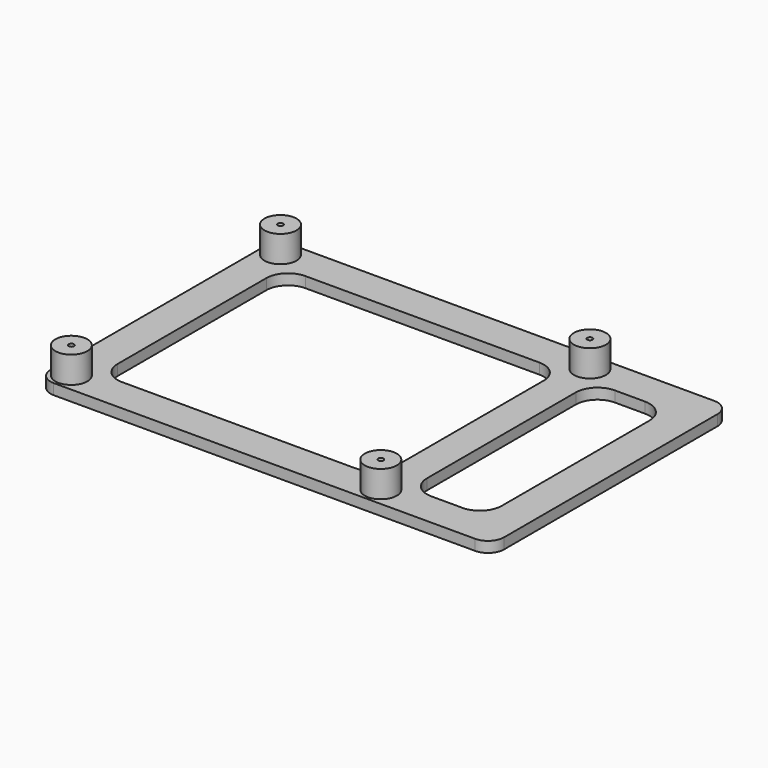
from build123d import *

# Parameters (mm, degrees)
SKETCH_W        = 85
SKETCH_H        = 56
PAD_DEPTH       = 2
SKETCH001_R     = 3
PAD001_DEPTH    = 5
FILLET_R        = 3
SKETCH002_R     = 0.5
POCKET_DEPTH    = 5
SKETCH003_R     = 0.5
POCKET001_DEPTH = 5
SKETCH004_R     = 0.5
POCKET002_DEPTH = 5
SKETCH005_R     = 0.5
POCKET003_DEPTH = 5
POCKET004_DEPTH = 2.001


with BuildPart() as part:
    # Sketch → Pad (new body)
    with BuildSketch(Plane.XY):
        with Locations((42.5, 28)):
            Rectangle(SKETCH_W, SKETCH_H)
    extrude(amount=PAD_DEPTH)

    # Sketch001 (on Face6 of Pad) → Pad001 (join)
    with BuildSketch(Plane.XY.offset(2)):
        with Locations((3.5, 3.5)):
            Circle(SKETCH001_R)
        with Locations((3.5, 52.5)):
            Circle(SKETCH001_R)
        with Locations((61.5, 52.5)):
            Circle(SKETCH001_R)
        with Locations((61.5, 3.5)):
            Circle(SKETCH001_R)
    extrude(amount=PAD001_DEPTH)

    # Fillet
    fillet_edges = [part.edges().sort_by_distance(p)[0] for p in [
        (85, 0, 1),
        (85, 56, 1),
        (0, 56, 1),
        (0, 0, 1),
    ]]
    fillet(fillet_edges, radius=FILLET_R)

    # Sketch002 (on Face16 of Fillet) → Pocket (cut)
    with BuildSketch(Plane.XY.offset(7)):
        with Locations((3.5, 3.5)):
            Circle(SKETCH002_R)
    extrude(amount=-POCKET_DEPTH, mode=Mode.SUBTRACT)

    # Sketch003 (on Face17 of Pocket) → Pocket001 (cut)
    with BuildSketch(Plane.XY.offset(7)):
        with Locations((3.5, 52.5)):
            Circle(SKETCH003_R)
    extrude(amount=-POCKET001_DEPTH, mode=Mode.SUBTRACT)

    # Sketch004 (on Face15 of Pocket001) → Pocket002 (cut)
    with BuildSketch(Plane.XY.offset(7)):
        with Locations((61.5, 3.5)):
            Circle(SKETCH004_R)
    extrude(amount=-POCKET002_DEPTH, mode=Mode.SUBTRACT)

    # Sketch005 (on Face18 of Pocket002) → Pocket003 (cut)
    with BuildSketch(Plane.XY.offset(7)):
        with Locations((61.5, 52.5)):
            Circle(SKETCH005_R)
    extrude(amount=-POCKET003_DEPTH, mode=Mode.SUBTRACT)

    # Sketch006 (on Face5 of Pocket003) → Pocket004 (cut, through all)
    with BuildSketch(Plane.XY.offset(2)):
        with BuildLine():
            Line((10.571068, 49.5), (54.428932, 49.5))
            ThreePointArc((58.5, 45.428932), (57.307612, 48.307612), (54.428932, 49.5))
            Line((58.5, 45.428932), (58.5, 10.571068))
            ThreePointArc((54.428932, 6.5), (57.307612, 7.692388), (58.5, 10.571068))
            Line((54.428932, 6.5), (10.571068, 6.5))
            ThreePointArc((6.5, 10.571068), (7.692388, 7.692388), (10.571068, 6.5))
            Line((6.5, 10.571068), (6.5, 45.428932))
            ThreePointArc((10.571068, 49.5), (7.692388, 48.307612), (6.5, 45.428932))
        make_face()
        with BuildLine():
            Line((68.571068, 49.5), (74.191068, 49.5))
            ThreePointArc((78.5, 45.191068), (77.237943, 48.237943), (74.191068, 49.5))
            Line((78.5, 45.191068), (78.5, 10.571068))
            ThreePointArc((74.428932, 6.5), (77.307612, 7.692388), (78.5, 10.571068))
            Line((74.428932, 6.5), (68.571068, 6.5))
            ThreePointArc((64.5, 10.571068), (65.692388, 7.692388), (68.571068, 6.5))
            Line((64.5, 10.571068), (64.5, 45.428932))
            ThreePointArc((68.571068, 49.5), (65.692388, 48.307612), (64.5, 45.428932))
        make_face()
    extrude(amount=-POCKET004_DEPTH, mode=Mode.SUBTRACT)


solid = part.part
